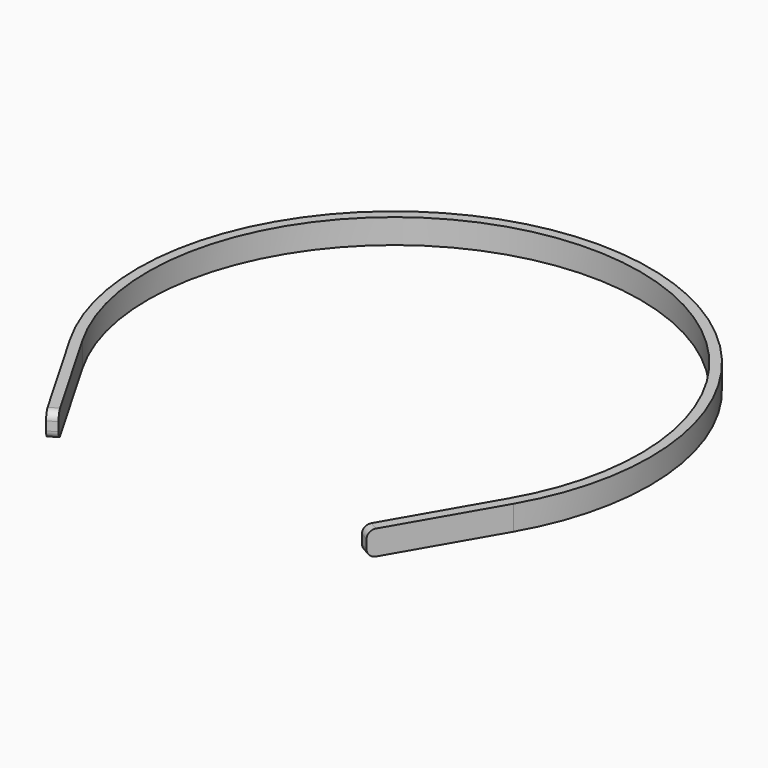
from build123d import *

# Parameters (mm, degrees)
F1_DEPTH = 3.175
F2_R     = 2.032


with BuildPart() as f1:
    # F0 (on Top) → F1 (new body, symmetric)
    with BuildSketch(Plane.XY):
        with BuildLine():
            Line((41.317318, -60.516307), (57.192318, -33.02))
            ThreePointArc((57.192318, -33.02), (0, 66.04), (-57.192318, -33.02))
            Line((-57.192318, -33.02), (-41.317318, -60.516307))
            Line((-41.317318, -60.516307), (-39.117613, -59.246307))
            Line((-39.117613, -59.246307), (-54.992613, -31.75))
            ThreePointArc((-54.992613, -31.75), (0, 63.5), (54.992613, -31.75))
            Line((54.992613, -31.75), (39.117613, -59.246307))
            Line((39.117613, -59.246307), (41.317318, -60.516307))
        make_face()
    extrude(amount=F1_DEPTH, both=True)

    # F2
    f2_edges = [f1.edges().sort_by_distance(p)[0] for p in [
        (40.217465, -59.881307, -3.175),
        (40.217465, -59.881307, 3.175),
        (-40.217465, -59.881307, 3.175),
        (-40.217465, -59.881307, -3.175),
    ]]
    fillet(f2_edges, radius=F2_R)


solid = f1.part
